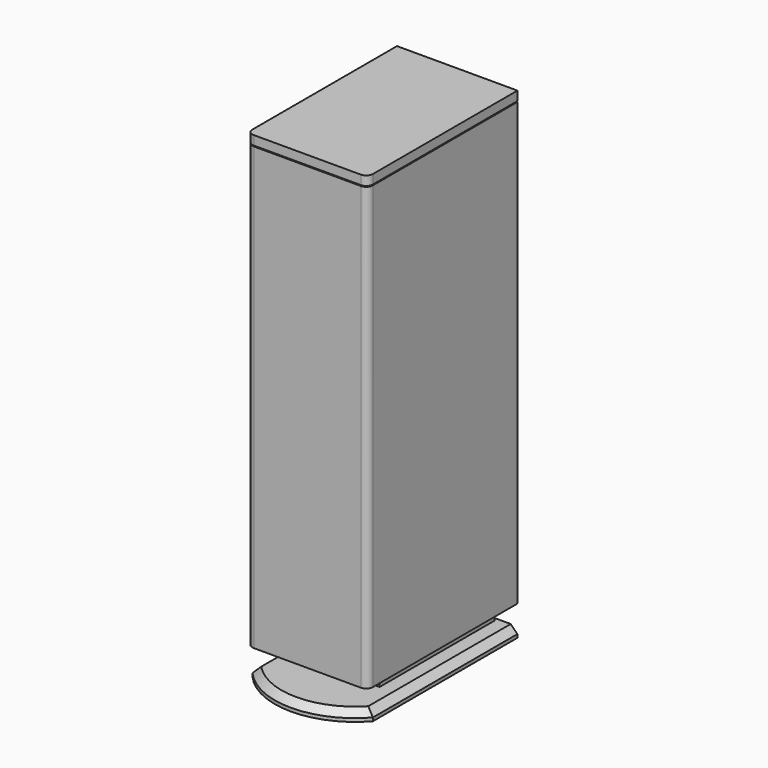
from build123d import *

# Parameters (mm, degrees)
F1_DEPTH = 838.2
F3_DEPTH = 1.5875
F5_DEPTH = 17.4625
F6_W     = 152.4
F6_H     = 273.05
F7_DEPTH = 38.1
F8_W     = 152.4
F8_H     = 273.05
F9_DEPTH = 19.05
F10_SIZE = 12.7


with BuildPart() as f1:
    # F0 (on Top) → F1 (new body)
    with BuildSketch(Plane.XY):
        with BuildLine():
            Line((-114.3, 177.8), (-114.3, -165.1))
            ThreePointArc((-114.3, -165.1), (-110.5802561211, -174.0802561211), (-101.6, -177.8))
            Line((-101.6, -177.8), (101.6, -177.8))
            ThreePointArc((101.6, -177.8), (110.5802561211, -174.0802561211), (114.3, -165.1))
            Line((114.3, -165.1), (114.3, 177.8))
            Line((114.3, 177.8), (-114.3, 177.8))
        make_face()
    extrude(amount=F1_DEPTH)

    # F2 (on face) → F3 (join)
    with BuildSketch(Plane.XY.offset(838.2)):
        with BuildLine():
            Line((-111.125, 174.625), (-111.125, -165.1))
            ThreePointArc((-111.125, -165.1), (-108.3351920908, -171.8351920908), (-101.6, -174.625))
            Line((-101.6, -174.625), (101.6, -174.625))
            ThreePointArc((101.6, -174.625), (108.3351920908, -171.8351920908), (111.125, -165.1))
            Line((111.125, -165.1), (111.125, 174.625))
            Line((111.125, 174.625), (-111.125, 174.625))
        make_face()
    extrude(amount=F3_DEPTH)

    # F4 (on face) → F5 (join)
    with BuildSketch(Plane.XY.offset(839.7875)):
        with BuildLine():
            Line((-101.6, -177.8), (101.6, -177.8))
            ThreePointArc((101.6, -177.8), (110.5802561211, -174.0802561211), (114.3, -165.1))
            Line((114.3, -165.1), (114.3, 177.8))
            Line((114.3, 177.8), (-114.3, 177.8))
            Line((-114.3, 177.8), (-114.3, -165.1))
            ThreePointArc((-114.3, -165.1), (-110.5802561211, -174.0802561211), (-101.6, -177.8))
        make_face()
    extrude(amount=F5_DEPTH)

    # F6 (on face) → F7 (join)
    with BuildSketch(Plane(origin=(0, 0, 0), x_dir=(1, 0, 0), z_dir=(0, 0, -1))):
        with Locations((0, -34.925)):
            Rectangle(F6_W, F6_H)
    extrude(amount=F7_DEPTH)


with BuildPart() as f9:
    # F8 (on face) → F9 (new body)
    with BuildSketch(Plane(origin=(0, 0, -38.1), x_dir=(1, 0, 0), z_dir=(0, 0, -1))):
        with BuildLine():
            Line((-114.3, 165.1), (-114.3, -177.8))
            Line((-114.3, -177.8), (114.3, -177.8))
            Line((114.3, -177.8), (114.3, 165.1))
            ThreePointArc((114.3, 165.1), (0, 216.6968750484), (-114.3, 165.1))
        make_face()
        with Locations((0, -34.925)):
            Rectangle(F8_W, F8_H, mode=Mode.SUBTRACT)
        with Locations((0, -34.925)):
            Rectangle(F8_W, F8_H)
    extrude(amount=F9_DEPTH)

    # F10
    f10_edges = [f9.edges().sort_by_distance(p)[0] for p in [
        (-114.3, 6.35, -38.1),
        (0, -216.696875, -38.1),
        (114.3, 6.35, -38.1),
    ]]
    chamfer(f10_edges, length=F10_SIZE)


solid = Compound([f1.part, f9.part])
